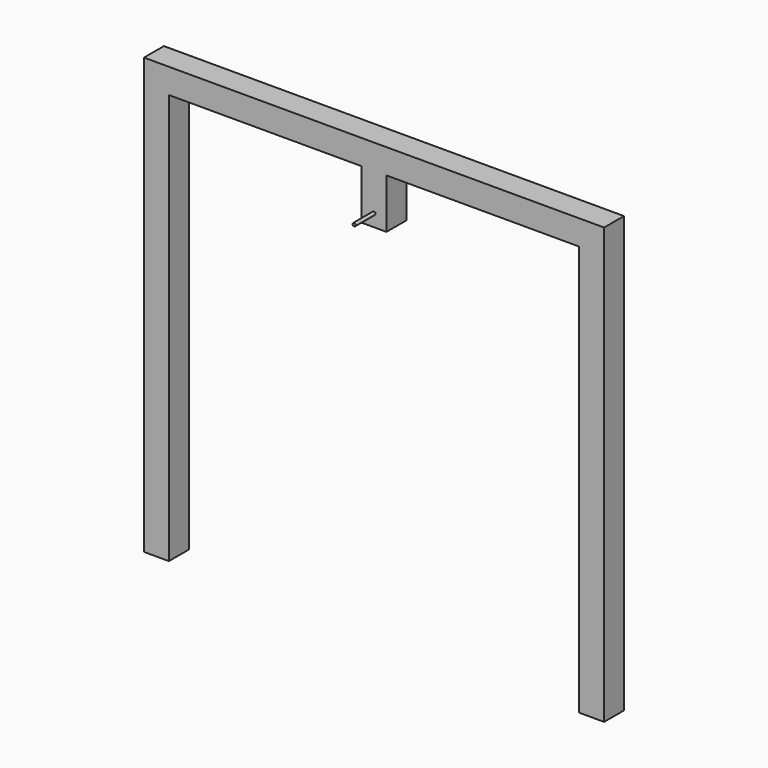
from build123d import *

# Parameters (mm, degrees)
F0_W     = 25.4
F0_H     = 25.4
F1_DEPTH = 444.5
F2_W     = 25.4
F2_H     = 25.4
F3_DEPTH = 209.55
F5_W     = 25.4
F5_H     = 25.4
F6_DEPTH = 50.8
F7_R     = 1.5875
F8_DEPTH = 25.4


with BuildPart() as f1:
    # F0 (on Top) → F1 (new body)
    with BuildSketch(Plane.XY):
        with Locations((-222.25, 0)):
            Rectangle(F0_W, F0_H)
    extrude(amount=F1_DEPTH)

    # F2 (on face) → F3 (join)
    with BuildSketch(Plane.YZ.offset(-209.55)):
        with Locations((0, 431.8)):
            Rectangle(F2_W, F2_H)
    extrude(amount=F3_DEPTH)

    # F4: F1 across plane


with BuildPart() as f1_1:
    add(f1.part)
    add(f1.part.mirror(Plane.YZ))

    # F5 (on face) → F6 (join)
    with BuildSketch(Plane(origin=(0, 0, 419.1), x_dir=(1, 0, 0), z_dir=(0, 0, -1))):
        Rectangle(F5_W, F5_H)
    extrude(amount=F6_DEPTH)

    # F7 (on face) → F8 (join)
    with BuildSketch(Plane.XZ.offset(12.7)):
        with Locations((0, 381)):
            Circle(F7_R)
    extrude(amount=F8_DEPTH)


solid = f1_1.part
